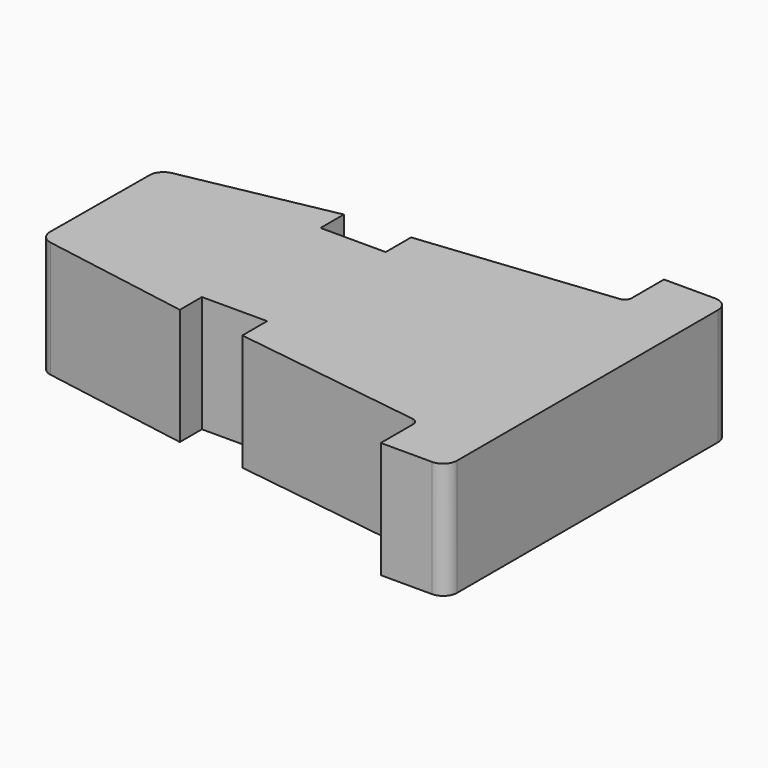
from build123d import *

# Parameters (mm, degrees)
F1_DEPTH = 25
F2_DEPTH = 25


with BuildPart() as f1:
    # F0 (on Top) → F1 (new body)
    with BuildSketch(Plane.XY):
        with BuildLine():
            Line((20.510751, -26.791588), (20.510751, 43.208412))
            ThreePointArc((20.510751, 43.208412), (19.632072, 45.329732), (17.510751, 46.208412))
            Line((17.510751, 46.208412), (6.510751, 46.208412))
            Line((6.510751, 46.208412), (6.510751, 37.556949))
            ThreePointArc((6.510751, 37.556949), (6.126233, 36.554103), (5.169818, 36.065407))
            Line((5.169818, 36.065407), (-36.143343, 31.65953))
            Line((-36.143343, 31.65953), (-36.143343, 24.842082))
            Line((-36.143343, 24.842082), (-50.143343, 24.842082))
            Line((-50.143343, 24.842082), (-50.143343, 31.103174))
            Line((-50.143343, 31.103174), (-82.081185, 24.840478))
            ThreePointArc((-82.081185, 24.840478), (-83.814669, 23.809757), (-84.503856, 21.914401))
            Line((-84.503856, 21.914401), (-84.661583, -4.582726))
            ThreePointArc((-84.661583, -4.582726), (-83.961607, -6.526754), (-82.170625, -7.55709))
            Line((-82.170625, -7.55709), (-49.996673, -13.096121))
            Line((-49.996673, -13.096121), (-49.996673, -7.157918))
            Line((-49.996673, -7.157918), (-35.996673, -7.157918))
            Line((-35.996673, -7.157918), (-35.996673, -13.816103))
            Line((-35.996673, -13.816103), (5.219561, -19.610079))
            ThreePointArc((5.219561, -19.610079), (6.142832, -20.111405), (6.510751, -21.095474))
            Line((6.510751, -21.095474), (6.510751, -29.791588))
            Line((6.510751, -29.791588), (17.510751, -29.791588))
            ThreePointArc((17.510751, -29.791588), (19.632072, -28.912909), (20.510751, -26.791588))
        make_face()
    extrude(amount=F1_DEPTH)

    # F0 (on Top) → F2 (join)
    with BuildSketch(Plane.XY):
        with BuildLine():
            Line((20.510751, -26.791588), (20.510751, 43.208412))
            ThreePointArc((20.510751, 43.208412), (19.632072, 45.329732), (17.510751, 46.208412))
            Line((17.510751, 46.208412), (6.510751, 46.208412))
            Line((6.510751, 46.208412), (6.510751, 37.556949))
            ThreePointArc((6.510751, 37.556949), (6.126233, 36.554103), (5.169818, 36.065407))
            Line((5.169818, 36.065407), (-36.143343, 31.65953))
            Line((-36.143343, 31.65953), (-36.143343, 24.842082))
            Line((-36.143343, 24.842082), (-50.143343, 24.842082))
            Line((-50.143343, 24.842082), (-50.143343, 31.103174))
            Line((-50.143343, 31.103174), (-82.081185, 24.840478))
            ThreePointArc((-82.081185, 24.840478), (-83.814669, 23.809757), (-84.503856, 21.914401))
            Line((-84.503856, 21.914401), (-84.661583, -4.582726))
            ThreePointArc((-84.661583, -4.582726), (-83.961607, -6.526754), (-82.170625, -7.55709))
            Line((-82.170625, -7.55709), (-49.996673, -13.096121))
            Line((-49.996673, -13.096121), (-49.996673, -7.157918))
            Line((-49.996673, -7.157918), (-35.996673, -7.157918))
            Line((-35.996673, -7.157918), (-35.996673, -13.816103))
            Line((-35.996673, -13.816103), (5.219561, -19.610079))
            ThreePointArc((5.219561, -19.610079), (6.142832, -20.111405), (6.510751, -21.095474))
            Line((6.510751, -21.095474), (6.510751, -29.791588))
            Line((6.510751, -29.791588), (17.510751, -29.791588))
            ThreePointArc((17.510751, -29.791588), (19.632072, -28.912909), (20.510751, -26.791588))
        make_face()
    extrude(amount=F2_DEPTH)


solid = f1.part
